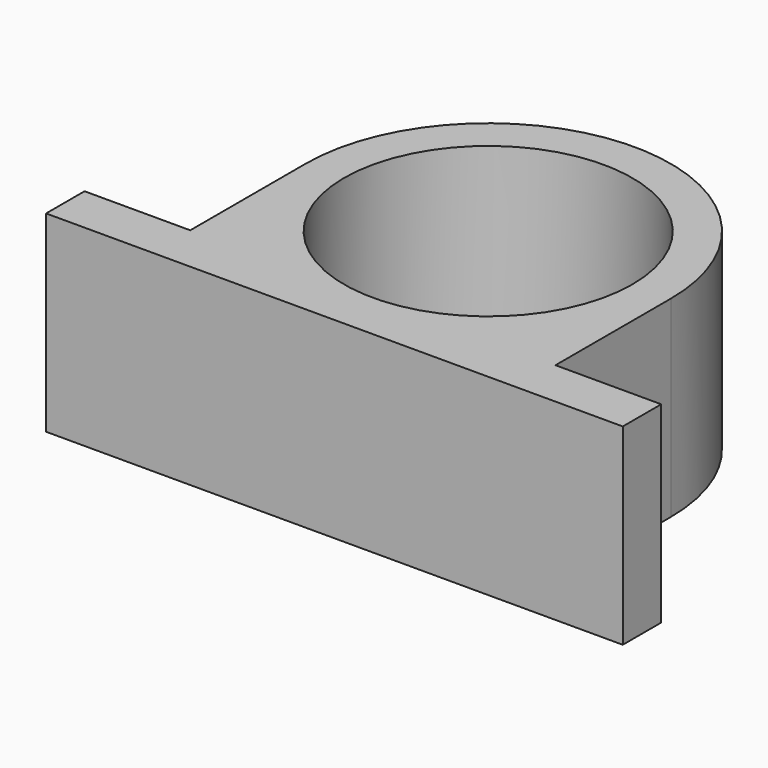
from build123d import *

# Parameters (mm, degrees)
SKETCH_R     = 15
PAD_DEPTH    = 20
SKETCH001_R  = 13
PAD001_DEPTH = 1


with BuildPart() as part:
    # Sketch → Pad (new body)
    with BuildSketch(Plane.XY):
        with BuildLine():
            Line((30, 5), (30, 0))
            Line((30, 0), (-30, 0))
            Line((-30, 0), (-30, 5))
            Line((-30, 5), (-19, 5))
            Line((-19, 20), (-19, 5))
            ThreePointArc((19, 20), (0, 39), (-19, 20))
            Line((19, 20), (19, 5))
            Line((19, 5), (30, 5))
        make_face()
        with Locations((0, 20)):
            Circle(SKETCH_R, mode=Mode.SUBTRACT)
    extrude(amount=PAD_DEPTH)

    # Sketch001 (on Face10 of Pad) → Pad001 (join)
    with BuildSketch(Plane(origin=(0, 0, 0), x_dir=(1, 0, 0), z_dir=(0, 0, -1))):
        with BuildLine():
            ThreePointArc((-19, -20), (0, -39), (19, -20))
            Line((19, -5), (19, -20))
            Line((30, -5), (19, -5))
            Line((30, 0), (30, -5))
            Line((-30, 0), (30, 0))
            Line((-30, -5), (-30, 0))
            Line((-19, -5), (-30, -5))
            Line((-19, -20), (-19, -5))
        make_face()
        with Locations((0, -20)):
            Circle(SKETCH001_R, mode=Mode.SUBTRACT)
    extrude(amount=-PAD001_DEPTH)


solid = part.part
